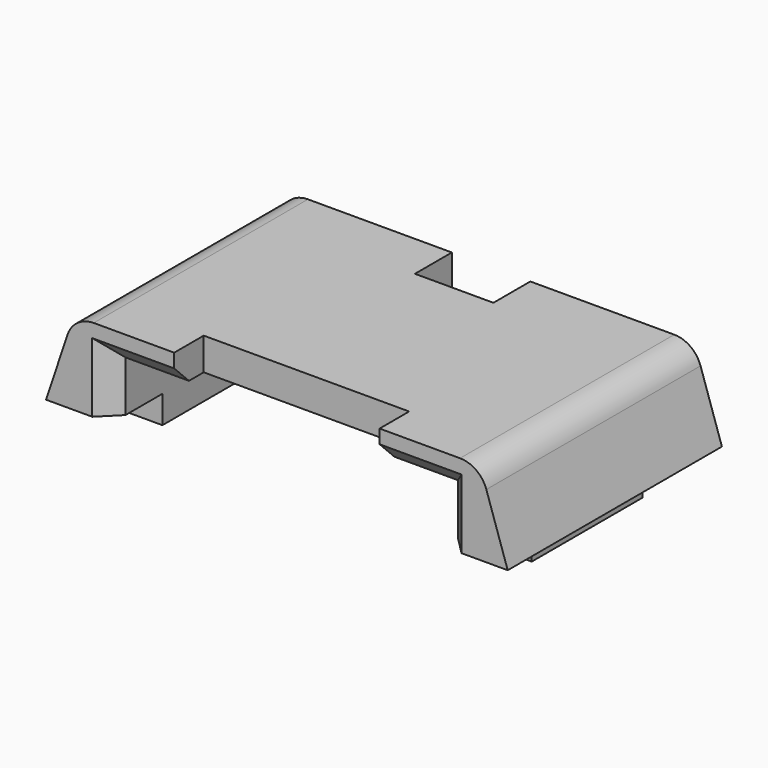
from build123d import *

# Parameters (mm, degrees)
F1_DEPTH  = 3.5
F2_W      = 29
F2_H      = 9
F3_DEPTH  = 4
F4_W      = 29
F4_H      = 9
F5_DEPTH  = 4
F6_SIZE   = 2
F7_W      = 4
F7_H      = 15
F8_DEPTH  = 3
F9_SIZE   = 2
F11_DEPTH = 29
F12_R     = 3


with BuildPart() as f1:
    # F0 (on Top) → F1 (new body)
    with BuildSketch(Plane.XY):
        Polygon((-4.25, 12.1511180716), (-18, 12.1511180716), (-18, -16.8488819284), (-11.125, -16.8488819284), (-11.125, -12.8488819284), (11.125, -12.8488819284), (11.125, -16.8488819284), (18, -16.8488819284), (18, 12.1511180716), (4.25, 12.1511180716), (4.25, 7.1511180716), (-4.25, 7.1511180716), align=None)
    extrude(amount=F1_DEPTH)

    # F2 (on face) → F3 (join)
    with BuildSketch(Plane(origin=(-18, 0, 0), x_dir=(0, -1, 0), z_dir=(-1, 0, 0))):
        with Locations((2.3488819284, -1)):
            Rectangle(F2_W, F2_H)
    extrude(amount=F3_DEPTH)

    # F4 (on face) → F5 (join)
    with BuildSketch(Plane.YZ.offset(18)):
        with Locations((-2.3488819284, -1)):
            Rectangle(F4_W, F4_H)
    extrude(amount=F5_DEPTH)

    # F6
    f6_edges = [f1.edges().sort_by_distance(p)[0] for p in [
        (-14.5625, -16.848882, 0),
        (14.5625, -16.848882, 0),
    ]]
    chamfer(f6_edges, length=F6_SIZE)

    # F7 (on face) → F8 (join)
    with BuildSketch(Plane(origin=(0, 0, -5.5), x_dir=(1, 0, 0), z_dir=(0, 0, -1))):
        with Locations((20, 2.3488819284)):
            Rectangle(F7_W, F7_H)
        with Locations((-20, 2.3488819284)):
            Rectangle(F7_W, F7_H)
    extrude(amount=F8_DEPTH)

    # F9
    f9_edges = [f1.edges().sort_by_distance(p)[0] for p in [
        (18, -16.848882, -1.75),
        (-18, -16.848882, -1.75),
    ]]
    chamfer(f9_edges, length=F9_SIZE)

    # F10 (on face) → F11 (join, through all)
    with BuildSketch(Plane(origin=(0, 12.1511180716, 0), x_dir=(-1, 0, 0), z_dir=(0, 1, 0))):
        Polygon((25, -5.5), (22, 3.5), (22, -5.5), align=None)
        Polygon((-22, -5.5), (-22, 3.5), (-25, -5.5), align=None)
    extrude(amount=-F11_DEPTH)

    # F12
    f12_edges = [f1.edges().sort_by_distance(p)[0] for p in [
        (-22, -2.348882, 3.5),
        (22, -2.348882, 3.5),
    ]]
    fillet(f12_edges, radius=F12_R)


solid = f1.part
